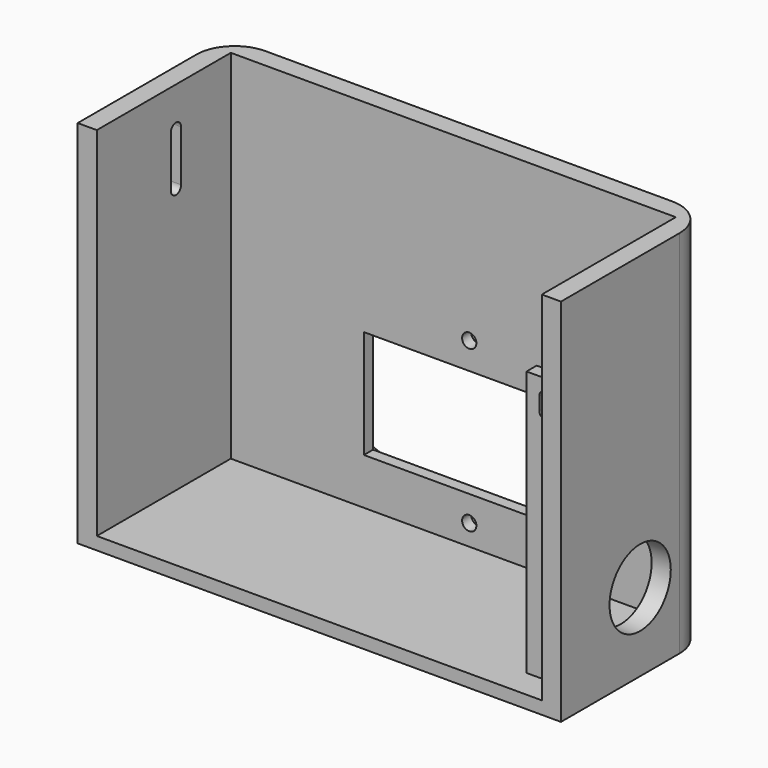
from build123d import *

# Parameters (mm, degrees)
F1_DEPTH  = 88.9
F0_W      = 110.728125
F0_H      = 41.671875
F2_DEPTH  = 3.175
F3_W      = 9.525
F3_H      = 3.175
F4_DEPTH  = 88.9
F5_W      = 9.525
F5_H      = 22.86
F6_DEPTH  = 3.175
F8_DEPTH  = 4.7625
F9_R      = 9.525
F10_W     = 49.53
F10_H     = 26.924
F10_R     = 1.778
F11_DEPTH = 4.7625
F12_DEPTH = 1.905
F14_DEPTH = 4.7625
F15_R     = 9.525
F16_DEPTH = 4.7625


with BuildPart() as f1:
    # F0 (on Top) → F1 (new body)
    with BuildSketch(Plane.XY):
        Polygon((0, 46.434375), (0, 0), (4.7625, 0), (4.7625, 41.671875), (115.490625, 41.671875), (115.490625, 0), (120.253125, 0), (120.253125, 46.434375), align=None)
    extrude(amount=F1_DEPTH)

    # F0 (on Top) → F2 (join)
    with BuildSketch(Plane.XY):
        Polygon((0, 46.434375), (0, 0), (4.7625, 0), (4.7625, 41.671875), (115.490625, 41.671875), (115.490625, 0), (120.253125, 0), (120.253125, 46.434375), align=None)
        with Locations((60.1265625, 20.8359375)):
            Rectangle(F0_W, F0_H)
    extrude(amount=-F2_DEPTH)

    # F3 (on face) → F4 (join, through all)
    with BuildSketch(Plane.XY):
        with Locations((110.728125, 8.73125)):
            Rectangle(F3_W, F3_H)
    extrude(amount=F4_DEPTH)

    # F5 (on face) → F6 (cut, through all)
    with BuildSketch(Plane.XZ.offset(-7.14375)):
        with Locations((110.728125, 77.4700000001)):
            Rectangle(F5_W, F5_H)
        with BuildLine():
            Line((112.315625, 58.4993750001), (112.315625, 61.6743750001))
            ThreePointArc((112.315625, 61.6743750001), (110.728125, 63.2618750001), (109.140625, 61.6743750001))
            Line((109.140625, 61.6743750001), (109.140625, 58.4993750001))
            ThreePointArc((109.140625, 58.4993750001), (110.728125, 56.9118750001), (112.315625, 58.4993750001))
        make_face()
    extrude(amount=-F6_DEPTH, mode=Mode.SUBTRACT)

    # F7 (on face) → F8 (cut, through all)
    with BuildSketch(Plane(origin=(0, 0, 0), x_dir=(0, -1, 0), z_dir=(-1, 0, 0))):
        with BuildLine():
            Line((-23.01875, 66.278125), (-23.01875, 78.978125))
            ThreePointArc((-23.01875, 78.978125), (-24.60625, 80.565625), (-26.19375, 78.978125))
            Line((-26.19375, 78.978125), (-26.19375, 66.278125))
            ThreePointArc((-26.19375, 66.278125), (-24.60625, 64.690625), (-23.01875, 66.278125))
        make_face()
    extrude(amount=-F8_DEPTH, mode=Mode.SUBTRACT)

    # F9
    f9_edges = [f1.edges().sort_by_distance(p)[0] for p in [
        (120.253125, 46.434375, 42.8625),
        (0, 46.434375, 42.8625),
    ]]
    fillet(f9_edges, radius=F9_R)

    # F10 (on face) → F11 (cut, through all)
    with BuildSketch(Plane(origin=(0, 46.434375, 0), x_dir=(-1, 0, 0), z_dir=(0, 1, 0))):
        with Locations((-62.6407308385, 25.0270083303)):
            Rectangle(F10_W, F10_H)
        with Locations((-64.0885308385, 45.1438083303)):
            Circle(F10_R)
        with Locations((-64.0885308385, 5.1642083303)):
            Circle(F10_R)
    extrude(amount=-F11_DEPTH, mode=Mode.SUBTRACT)

    # F10 (on face) → F12 (cut)
    with BuildSketch(Plane(origin=(0, 46.434375, 0), x_dir=(-1, 0, 0), z_dir=(0, 1, 0))):
        Polygon((-94.3145308385, 38.4890083303), (-94.3145308385, 11.5650083303), (-64.0885308385, 0.6430083303), (-34.6245308385, 11.5650083303), (-34.6245308385, 38.4890083303), (-64.0885308385, 49.6650083303), align=None)
        with Locations((-64.0885308385, 5.1642083303)):
            Circle(F10_R, mode=Mode.SUBTRACT)
        with Locations((-62.6407308385, 25.0270083303)):
            Rectangle(F10_W, F10_H, mode=Mode.SUBTRACT)
        with Locations((-64.0885308385, 45.1438083303)):
            Circle(F10_R, mode=Mode.SUBTRACT)
    extrude(amount=-F12_DEPTH, mode=Mode.SUBTRACT)

    # F13 (on face) → F14 (cut, through all)
    with BuildSketch(Plane.XZ.offset(-41.671875)):
        with BuildLine():
            Line((113.903125, 58.4993750001), (113.903125, 61.6743750001))
            ThreePointArc((113.903125, 61.6743750001), (110.728125, 64.8493750001), (107.553125, 61.6743750001))
            Line((107.553125, 61.6743750001), (107.553125, 58.4993750001))
            ThreePointArc((107.553125, 58.4993750001), (110.728125, 55.3243750001), (113.903125, 58.4993750001))
        make_face()
    extrude(amount=-F14_DEPTH, mode=Mode.SUBTRACT)

    # F15 (on face) → F16 (cut, through all)
    with BuildSketch(Plane.YZ.offset(120.253125)):
        with Locations((24.6292781085, 16.2439811975)):
            Circle(F15_R)
    extrude(amount=-F16_DEPTH, mode=Mode.SUBTRACT)


solid = f1.part
